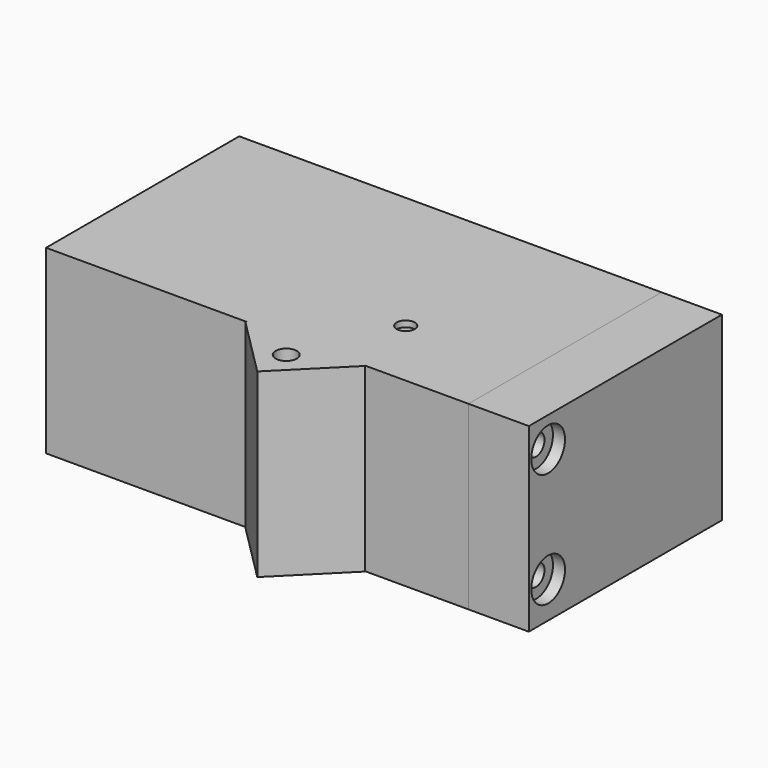
from build123d import *

# Parameters (mm, degrees)
BOX_W                  = 76
BOX_H                  = 26
BOX_DEPTH              = 1
BOX001_W               = 40
BOX001_H               = 27.5
BOX001_DEPTH           = 1.5
BOX002_W               = 40
BOX002_H               = 3.5
BOX002_DEPTH           = 12
BOX003_W               = 40
BOX003_H               = 3.5
BOX003_DEPTH           = 12
BOX004_W               = 15
BOX004_H               = 15
BOX004_DEPTH           = 6
CYLINDER_R             = 7.5
CYLINDER_DEPTH         = 4
CYLINDER007_R          = 3.5
CYLINDER007_DEPTH      = 2
CYLINDER004_R          = 1.75
CYLINDER004_DEPTH      = 100
CYLINDER003_R          = 1.75
CYLINDER003_DEPTH      = 100
CYLINDER008_R          = 3.5
CYLINDER008_DEPTH      = 2
BOX013_W               = 77
BOX013_H               = 27
BOX013_DEPTH           = 2
BOX012_W               = 10
BOX012_H               = 40
BOX012_DEPTH           = 30
BOX014_W               = 25
BOX014_H               = 21
BOX014_DEPTH           = 19
BOX016_W               = 20
BOX016_H               = 20
BOX016_DEPTH           = 30
CYLINDER010_R          = 1.75
CYLINDER010_DEPTH      = 30
CYLINDER011_R          = 3
CYLINDER011_DEPTH      = 10
BOX015_W               = 14
BOX015_H               = 14
BOX015_DEPTH           = 30
BOX015_PLACEMENT_ANGLE = 45
CYLINDER009_R          = 1.5
CYLINDER009_DEPTH      = 10
CYLINDER006_R          = 3.5
CYLINDER006_DEPTH      = 100
CYLINDER005_R          = 3.5
CYLINDER005_DEPTH      = 100
CYLINDER002_R          = 1.75
CYLINDER002_DEPTH      = 100
CYLINDER001_R          = 1.75
CYLINDER001_DEPTH      = 100
BOX010_W               = 50
BOX010_H               = 19
BOX010_DEPTH           = 10
BOX011_W               = 9
BOX011_H               = 20
BOX011_DEPTH           = 20
BOX009_W               = 100
BOX009_H               = 26
BOX009_DEPTH           = 26
BOX008_W               = 100
BOX008_H               = 29
BOX008_DEPTH           = 24
BOX007_W               = 77
BOX007_H               = 27
BOX007_DEPTH           = 2
BOX006_W               = 72
BOX006_H               = 22
BOX006_DEPTH           = 10
BOX005_W               = 70
BOX005_H               = 40
BOX005_DEPTH           = 30


with BuildPart() as obj1:
    # Box → Box (new body)
    with BuildSketch(Plane.XY.offset(-13)):
        with Locations((38, 13)):
            Rectangle(BOX_W, BOX_H)
    extrude(amount=BOX_DEPTH)


with BuildPart() as cube001:
    # Box001 → Box001 (new body)
    with BuildSketch(Plane.XY):
        with Locations((20, 13.75)):
            Rectangle(BOX001_W, BOX001_H)
    extrude(amount=BOX001_DEPTH)


with BuildPart() as cube:
    # Box002 → Box002 (new body)
    with BuildSketch(Plane.XY):
        with Locations((20, 1.75)):
            Rectangle(BOX002_W, BOX002_H)
    extrude(amount=BOX002_DEPTH)


with BuildPart() as cube002:
    # Box003 → Box003 (new body)
    with BuildSketch(Plane(origin=(0, 24, 0), x_dir=(1, 0, 0), z_dir=(0, 0, 1))):
        with Locations((20, 1.75)):
            Rectangle(BOX003_W, BOX003_H)
    extrude(amount=BOX003_DEPTH)


with BuildPart() as cube003:
    # Box004 → Box004 (new body)
    with BuildSketch(Plane(origin=(0, 6.25, -6), x_dir=(1, 0, 0), z_dir=(0, 0, 1))):
        with Locations((7.5, 7.5)):
            Rectangle(BOX004_W, BOX004_H)
    extrude(amount=BOX004_DEPTH)


with BuildPart() as cylinder:
    # Cylinder → Cylinder (new body)
    with BuildSketch(Plane(origin=(7.5, 13.75, -10), x_dir=(1, 0, 0), z_dir=(0, 0, 1))):
        Circle(CYLINDER_R)
    extrude(amount=CYLINDER_DEPTH)


with BuildPart() as fusion001:
    # Fusion001 base: copy of Cube003
    add(cube003.part)

    # Fusion001: union Cylinder
    add(cylinder.part)


with BuildPart() as fusion001_1:
    # Fusion001 placement: moved
    add(fusion001.part.moved(Location((25, 0, 0))))


with BuildPart() as esp32camtemplate:
    # Fusion base: copy of Cylinder
    add(cylinder.part)

    # Fusion: union Cube001, Cube, Cube002, Cube003, Fusion001
    add(cube001.part)
    add(cube.part)
    add(cube002.part)
    add(cube003.part)
    add(fusion001_1.part)


with BuildPart() as esp32camtemplate_1:
    # Fusion placement: moved
    add(esp32camtemplate.part.moved(Location((10, 0, 0))))


with BuildPart() as cylinder007:
    # Cylinder007 → Cylinder007 (new body)
    with BuildSketch(Plane(origin=(75, -6, 10), x_dir=(0, 0, -1), z_dir=(1, 0, 0))):
        Circle(CYLINDER007_R)
    extrude(amount=CYLINDER007_DEPTH)


with BuildPart() as cylinder004:
    # Cylinder004 → Cylinder004 (new body)
    with BuildSketch(Plane(origin=(-10, -6, 10), x_dir=(0, 0, -1), z_dir=(1, 0, 0))):
        Circle(CYLINDER004_R)
    extrude(amount=CYLINDER004_DEPTH)


with BuildPart() as cylinder003:
    # Cylinder003 → Cylinder003 (new body)
    with BuildSketch(Plane(origin=(-10, -6, -9), x_dir=(0, 0, -1), z_dir=(1, 0, 0))):
        Circle(CYLINDER003_R)
    extrude(amount=CYLINDER003_DEPTH)


with BuildPart() as fusion006:
    # Cylinder008 → Cylinder008 (new body)
    with BuildSketch(Plane(origin=(75, -6, -9), x_dir=(0, 0, -1), z_dir=(1, 0, 0))):
        Circle(CYLINDER008_R)
    extrude(amount=CYLINDER008_DEPTH)

    # Fusion006: union Cylinder007, Cylinder004, Cylinder003
    add(cylinder007.part)
    add(cylinder004.part)
    add(cylinder003.part)


with BuildPart() as obj2:
    # Box013 → Box013 (new body)
    with BuildSketch(Plane(origin=(-0.5, -0.5, -13.5), x_dir=(1, 0, 0), z_dir=(0, 0, 1))):
        with Locations((38.5, 13.5)):
            Rectangle(BOX013_W, BOX013_H)
    extrude(amount=BOX013_DEPTH)


with BuildPart() as cut004:
    # Box012 → Box012 (new body)
    with BuildSketch(Plane(origin=(67, -10, -15), x_dir=(1, 0, 0), z_dir=(0, 0, 1))):
        with Locations((5, 20)):
            Rectangle(BOX012_W, BOX012_H)
    extrude(amount=BOX012_DEPTH)

    # Cut004: cut obj2
    add(obj2.part, mode=Mode.SUBTRACT)


with BuildPart() as obj3:
    # Box014 → Box014 (new body)
    with BuildSketch(Plane(origin=(50.5, 3, -9), x_dir=(1, 0, 0), z_dir=(0, 0, 1))):
        with Locations((12.5, 10.5)):
            Rectangle(BOX014_W, BOX014_H)
    extrude(amount=BOX014_DEPTH)

    # Fusion003: union Cut004
    add(cut004.part)

    # Cut007: cut Fusion006
    add(fusion006.part, mode=Mode.SUBTRACT)


with BuildPart() as cube012:
    # Box016 → Box016 (new body)
    with BuildSketch(Plane(origin=(-10, 7, 0), x_dir=(1, 0, 0), z_dir=(0, 0, 1))):
        with Locations((10, 10)):
            Rectangle(BOX016_W, BOX016_H)
    extrude(amount=BOX016_DEPTH)


with BuildPart() as cylinder010:
    # Cylinder010 → Cylinder010 (new body)
    with BuildSketch(Plane(origin=(0, 3, 0), x_dir=(1, 0, 0), z_dir=(0, 0, 1))):
        Circle(CYLINDER010_R)
    extrude(amount=CYLINDER010_DEPTH)


with BuildPart() as fusion007:
    # Cylinder011 → Cylinder011 (new body)
    with BuildSketch(Plane(origin=(0, 3, 0), x_dir=(1, 0, 0), z_dir=(0, 0, 1))):
        Circle(CYLINDER011_R)
    extrude(amount=CYLINDER011_DEPTH)

    # Fusion007: union Cylinder010
    add(cylinder010.part)


with BuildPart() as cut010:
    # Box015 → Box015 (new body)
    with BuildSketch(Plane.XY):
        with Locations((7, 7)):
            Rectangle(BOX015_W, BOX015_H)
    extrude(amount=BOX015_DEPTH)


with BuildPart() as cut010_1:
    # Box015 placement: moved
    add(cut010.part.moved(Location((0, -3, 0))).rotate(Axis((0, -3, 0), (0, 0, 1)), BOX015_PLACEMENT_ANGLE))

    # Cut009: cut Fusion007
    add(fusion007.part, mode=Mode.SUBTRACT)

    # Cut010: cut Cube012
    add(cube012.part, mode=Mode.SUBTRACT)


with BuildPart() as cut010_2:
    # Cut010 placement: moved
    add(cut010_1.part.moved(Location((40, -17, -15))))


with BuildPart() as cylinder009:
    # Cylinder009 → Cylinder009 (new body)
    with BuildSketch(Plane(origin=(47, 2, 10), x_dir=(1, 0, 0), z_dir=(0, 0, 1))):
        Circle(CYLINDER009_R)
    extrude(amount=CYLINDER009_DEPTH)


with BuildPart() as cylinder006:
    # Cylinder006 → Cylinder006 (new body)
    with BuildSketch(Plane(origin=(-47, -6, -9), x_dir=(0, 0, -1), z_dir=(1, 0, 0))):
        Circle(CYLINDER006_R)
    extrude(amount=CYLINDER006_DEPTH)


with BuildPart() as fusion005:
    # Cylinder005 → Cylinder005 (new body)
    with BuildSketch(Plane(origin=(-47, -6, 10), x_dir=(0, 0, -1), z_dir=(1, 0, 0))):
        Circle(CYLINDER005_R)
    extrude(amount=CYLINDER005_DEPTH)

    # Fusion005: union Cylinder006
    add(cylinder006.part)


with BuildPart() as cylinder002:
    # Cylinder002 → Cylinder002 (new body)
    with BuildSketch(Plane(origin=(-10, -6, 10), x_dir=(0, 0, -1), z_dir=(1, 0, 0))):
        Circle(CYLINDER002_R)
    extrude(amount=CYLINDER002_DEPTH)


with BuildPart() as fusion004:
    # Cylinder001 → Cylinder001 (new body)
    with BuildSketch(Plane(origin=(-10, -6, -9), x_dir=(0, 0, -1), z_dir=(1, 0, 0))):
        Circle(CYLINDER001_R)
    extrude(amount=CYLINDER001_DEPTH)

    # Fusion004: union Cylinder002
    add(cylinder002.part)


with BuildPart() as cube007:
    # Box010 → Box010 (new body)
    with BuildSketch(Plane(origin=(0, 4, 2), x_dir=(1, 0, 0), z_dir=(0, 0, 1))):
        with Locations((25, 9.5)):
            Rectangle(BOX010_W, BOX010_H)
    extrude(amount=BOX010_DEPTH)


with BuildPart() as cube008:
    # Box011 → Box011 (new body)
    with BuildSketch(Plane(origin=(0, 4, -8), x_dir=(1, 0, 0), z_dir=(0, 0, 1))):
        with Locations((4.5, 10)):
            Rectangle(BOX011_W, BOX011_H)
    extrude(amount=BOX011_DEPTH)


with BuildPart() as cube006:
    # Box009 → Box009 (new body)
    with BuildSketch(Plane(origin=(1, 0, -12), x_dir=(1, 0, 0), z_dir=(0, 0, 1))):
        with Locations((50, 13)):
            Rectangle(BOX009_W, BOX009_H)
    extrude(amount=BOX009_DEPTH)


with BuildPart() as cube005:
    # Box008 → Box008 (new body)
    with BuildSketch(Plane(origin=(9, -1, -10), x_dir=(1, 0, 0), z_dir=(0, 0, 1))):
        with Locations((50, 14.5)):
            Rectangle(BOX008_W, BOX008_H)
    extrude(amount=BOX008_DEPTH)


with BuildPart() as obj4:
    # Box007 → Box007 (new body)
    with BuildSketch(Plane(origin=(-0.5, -0.5, -13.5), x_dir=(1, 0, 0), z_dir=(0, 0, 1))):
        with Locations((38.5, 13.5)):
            Rectangle(BOX007_W, BOX007_H)
    extrude(amount=BOX007_DEPTH)


with BuildPart() as windowopening:
    # Box006 → Box006 (new body)
    with BuildSketch(Plane(origin=(2, 2, -23), x_dir=(1, 0, 0), z_dir=(0, 0, 1))):
        with Locations((36, 11)):
            Rectangle(BOX006_W, BOX006_H)
    extrude(amount=BOX006_DEPTH)


with BuildPart() as obj5:
    # Box005 → Box005 (new body)
    with BuildSketch(Plane(origin=(-3, -10, -15), x_dir=(1, 0, 0), z_dir=(0, 0, 1))):
        with Locations((35, 20)):
            Rectangle(BOX005_W, BOX005_H)
    extrude(amount=BOX005_DEPTH)

    # Cut: cut WindowOpening
    add(windowopening.part, mode=Mode.SUBTRACT)

    # Cut001: cut obj4
    add(obj4.part, mode=Mode.SUBTRACT)

    # Cut002: cut Cube005
    add(cube005.part, mode=Mode.SUBTRACT)

    # Cut003: cut Cube006
    add(cube006.part, mode=Mode.SUBTRACT)

    # Fusion002: union Cube007, Cube008
    add(cube007.part)
    add(cube008.part)

    # Cut005: cut Fusion004
    add(fusion004.part, mode=Mode.SUBTRACT)

    # Cut006: cut Fusion005
    add(fusion005.part, mode=Mode.SUBTRACT)

    # Cut008: cut Cylinder009
    add(cylinder009.part, mode=Mode.SUBTRACT)

    # Fusion008: union Cut010
    add(cut010_2.part)


solid = Compound([obj1.part, esp32camtemplate_1.part, obj3.part, obj5.part])
